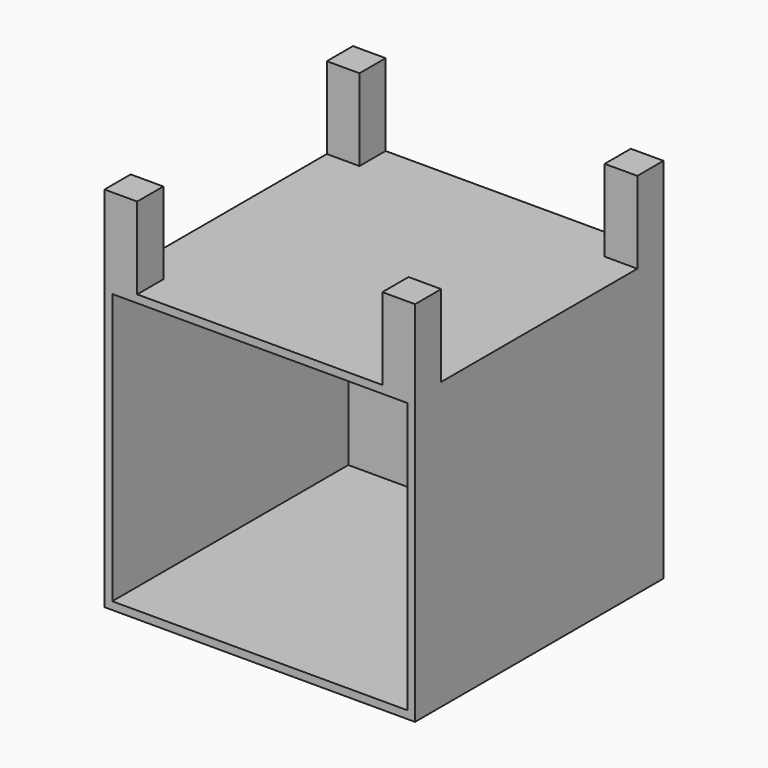
from build123d import *

# Parameters (mm, degrees)
F0_W     = 380
F0_H     = 380
F1_DEPTH = 350
F2_W     = 361
F2_H     = 331
F3_DEPTH = 361
F4_W     = 40
F4_H     = 40
F5_DEPTH = 100
F6_W     = 40
F6_H     = 40
F7_DEPTH = 100


with BuildPart() as f1:
    # F0 (on Top) → F1 (new body)
    with BuildSketch(Plane.XY):
        Rectangle(F0_W, F0_H)
    extrude(amount=F1_DEPTH)

    # F2 (on face) → F3 (cut)
    with BuildSketch(Plane.XZ.offset(190)):
        with Locations((0, 175)):
            Rectangle(F2_W, F2_H)
    extrude(amount=-F3_DEPTH, mode=Mode.SUBTRACT)

    # F4 (on face) → F5 (join)
    with BuildSketch(Plane.XY.offset(350)):
        with Locations((-170, 170)):
            Rectangle(F4_W, F4_H)
        with Locations((170, 170)):
            Rectangle(F4_W, F4_H)
    extrude(amount=F5_DEPTH)

    # F6 (on face) → F7 (join)
    with BuildSketch(Plane.XY.offset(350)):
        with Locations((-170, -170)):
            Rectangle(F6_W, F6_H)
        with Locations((170, -170)):
            Rectangle(F6_W, F6_H)
    extrude(amount=F7_DEPTH)


solid = f1.part
